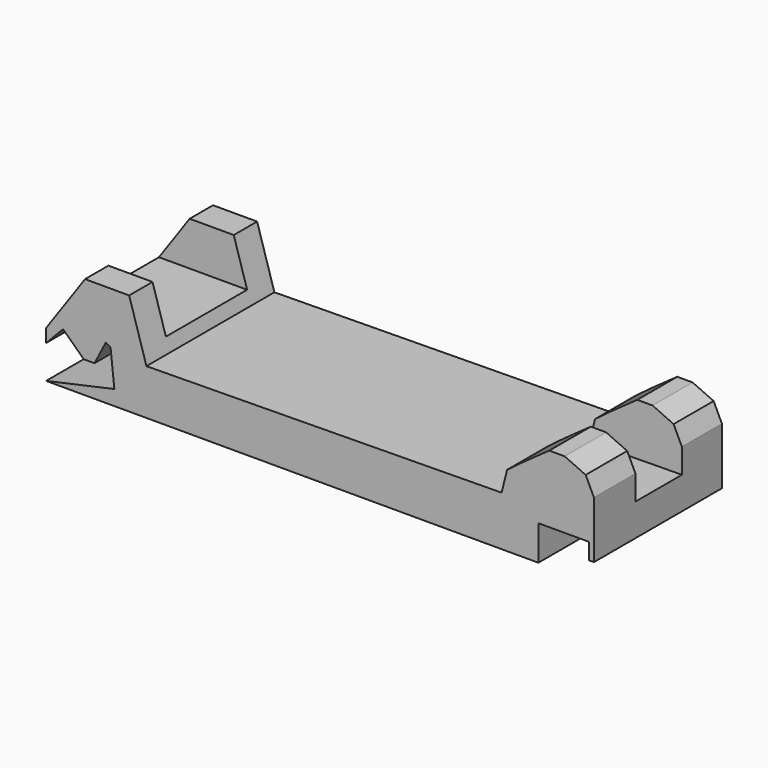
from build123d import *

# Parameters (mm, degrees)
F0_W     = 75
F0_H     = 21.8987613916
F1_DEPTH = 14
F3_DEPTH = 21.8997613916
F4_W     = 23.978275167
F4_H     = 7.947247941
F4_W_2   = 48.6262406095
F5_DEPTH = 25
F6_W     = 7.6308213174
F6_H     = 13.8987613916
F6_W_2   = 6.0403123498
F6_W_3   = 10.3618325666
F7_DEPTH = 6


with BuildPart() as f1:
    # F0 (on Top) → F1 (new body)
    with BuildSketch(Plane.XY):
        with Locations((37.5, 10.9493806958)):
            Rectangle(F0_W, F0_H)
    extrude(amount=F1_DEPTH)

    # F2 (on face) → F3 (cut, through all)
    with BuildSketch(Plane.XZ):
        Polygon((0, 14), (0, 6.3767037354), (5.3324829787, 14), align=None)
        Polygon((68.8854381442, 14), (11.3727953285, 14), (13.736397028, 6.2453923747), (62.3593553901, 6.8103666529), (63.1077513099, 9.8052984104), (65.2087256312, 11.3810319453), (67.0470818877, 12.6941427588), align=None)
        Polygon((75, 14), (70.9864199162, 14), (73.8660361752, 12.6941427588), (75, 10.330542922), align=None)
        Polygon((67.3934295774, 4.770135507), (67.3934295774, 0), (75, 0), (75, 2.5454831775), (74.345, 2.5454831775), (74.345, 4.770135507), align=None)
        Polygon((2.3223445751, 6.9947880693), (0, 4.561574664), (0, 0), (9.3439053744, 2.0588401239), (8.8216059457, 6.9350752235), (8.1620588899, 7.2728698142), (6.6326097585, 4.2866062695), (5.1598150908, 4.2866062695), align=None)
    extrude(amount=-F3_DEPTH, mode=Mode.SUBTRACT)

    # F4 (on face) → F5 (cut)
    with BuildSketch(Plane(origin=(-0.0707041789, 0, 6.0849608152), x_dir=(0.9999325005, 0, 0.0116187119), z_dir=(-0.0116187119, 0, 0.9999325005))):
        with Locations((74.4234114354, 11.0779821407)):
            Rectangle(F4_W, F4_H)
        with Locations((38.1211535471, 11.0779821407)):
            Rectangle(F4_W_2, F4_H)
    extrude(amount=F5_DEPTH, mode=Mode.SUBTRACT)

    # F6 (on face) → F7 (cut)
    with BuildSketch(Plane.XY.offset(14)):
        with Locations((15.1882059872, 10.9493806958)):
            Rectangle(F6_W, F6_H)
        with Locations((8.3526391536, 10.9493806958)):
            Rectangle(F6_W_2, F6_H)
        with Locations((0.1515666954, 10.9493806958)):
            Rectangle(F6_W_3, F6_H)
    extrude(amount=-F7_DEPTH, mode=Mode.SUBTRACT)


solid = f1.part
